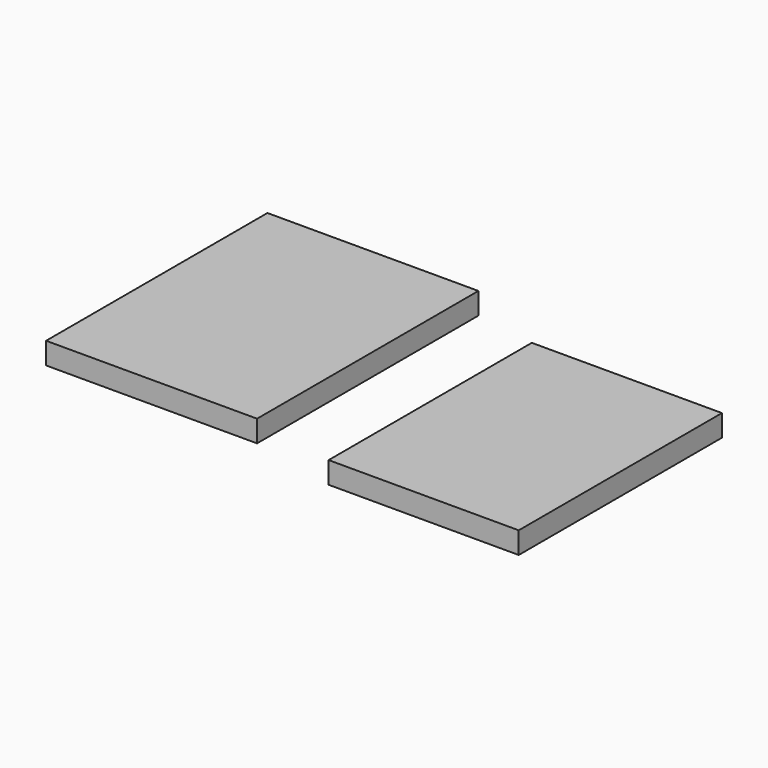
from build123d import *

# Parameters (mm, degrees)
F0_W     = 26.199899
F0_H     = 34.359416
F0_W_2   = 23.610272
F0_H_2   = 31.540042
F1_DEPTH = 2.7


with BuildPart() as f1:
    # F0 (on Top) → F1 (new body)
    with BuildSketch(Plane.XY):
        with Locations((-120.244238, 24.600231)):
            Rectangle(F0_W, F0_H)
        with Locations((-84.488947, 20.736513)):
            Rectangle(F0_W_2, F0_H_2)
    extrude(amount=F1_DEPTH)


solid = f1.part
